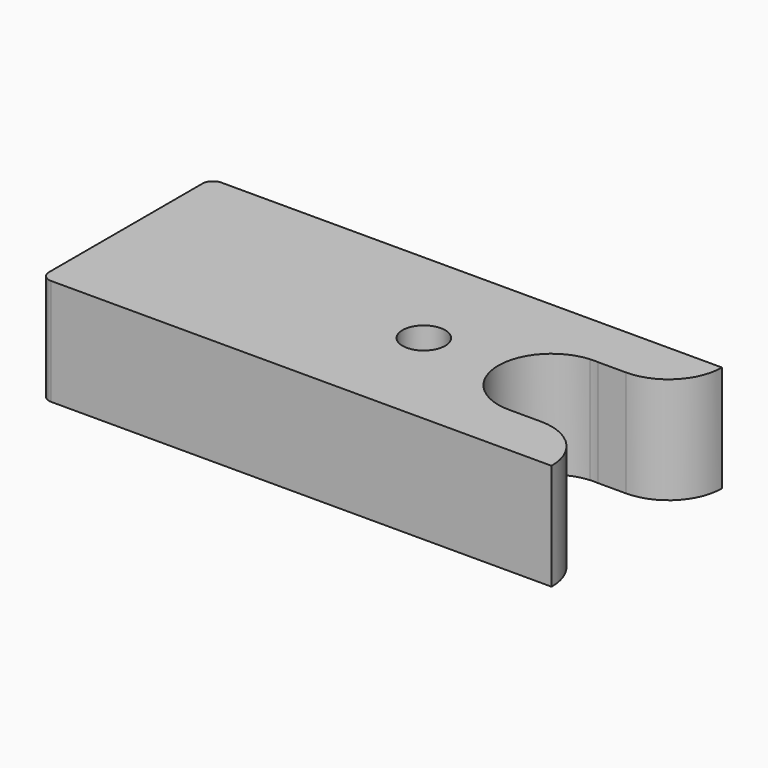
from build123d import *

# Parameters (mm, degrees)
F0_R     = 1
F1_DEPTH = 5


with BuildPart() as f1:
    # F0 (on Top) → F1 (new body)
    with BuildSketch(Plane.XY):
        with BuildLine():
            Line((24, 0), (0.5, 0))
            ThreePointArc((0.5, 0), (0.146447, -0.146447), (0, -0.5))
            Line((0, -0.5), (0, -9.5))
            ThreePointArc((0, -9.5), (0.146447, -9.853553), (0.5, -10))
            Line((0.5, -10), (24, -10))
            Line((24, -10), (24, -9.999452))
            ThreePointArc((24, -9.999452), (23.267767, -8.231685), (21.5, -7.499452))
            Line((21.5, -7.499452), (20.052357, -7.499452))
            ThreePointArc((20.052357, -7.499452), (17.503039, -5.123229), (19.805998, -2.507539))
            ThreePointArc((19.805998, -2.507539), (20, -2.5), (20.194002, -2.507539))
            Line((20.194002, -2.507539), (21.5, -2.507539))
            ThreePointArc((21.5, -2.507539), (23.267767, -1.775306), (24, -0.007539))
            Line((24, -0.007539), (24, 0))
        make_face()
        with Locations((14, -5)):
            Circle(F0_R, mode=Mode.SUBTRACT)
    extrude(amount=F1_DEPTH)


solid = f1.part
